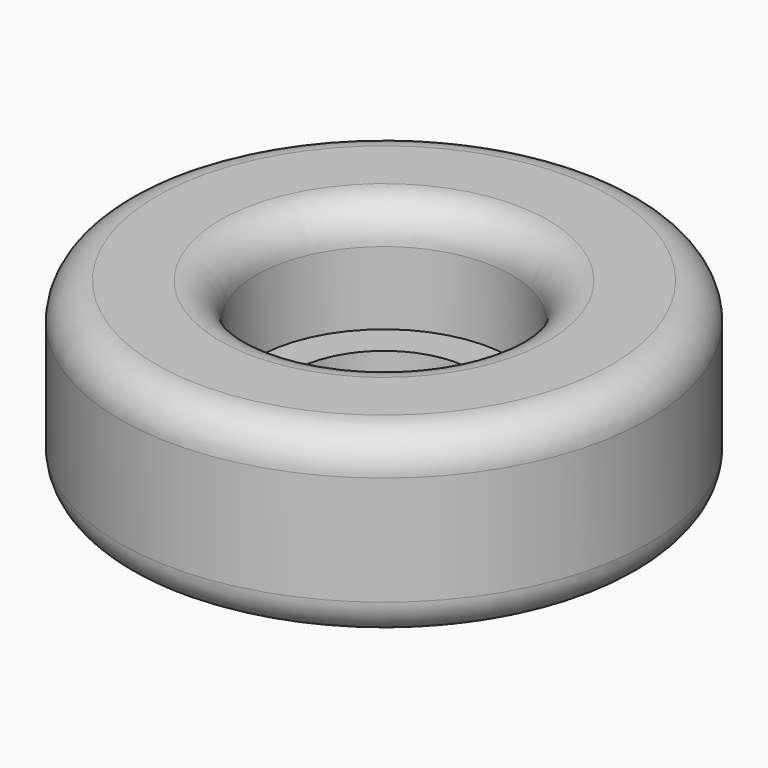
from build123d import *

# Parameters (mm, degrees)
F0_R     = 7.25
F0_R_2   = 2.5
F1_DEPTH = 5
F2_R     = 3.5
F2_R_2   = 2.5
F3_DEPTH = 3
F4_R     = 1


with BuildPart() as f1:
    # F0 (on Top) → F1 (new body)
    with BuildSketch(Plane.XY):
        Circle(F0_R)
        Circle(F0_R_2, mode=Mode.SUBTRACT)
    extrude(amount=F1_DEPTH)

    # F2 (on face) → F3 (cut)
    with BuildSketch(Plane.XY.offset(5)):
        Circle(F2_R)
        Circle(F2_R_2, mode=Mode.SUBTRACT)
    extrude(amount=-F3_DEPTH, mode=Mode.SUBTRACT)

    # F4
    f4_edges = [f1.edges().sort_by_distance(p)[0] for p in [
        (-7.25, 0, 5),
        (-3.5, 0, 5),
        (-7.25, 0, 0),
    ]]
    fillet(f4_edges, radius=F4_R)


solid = f1.part
